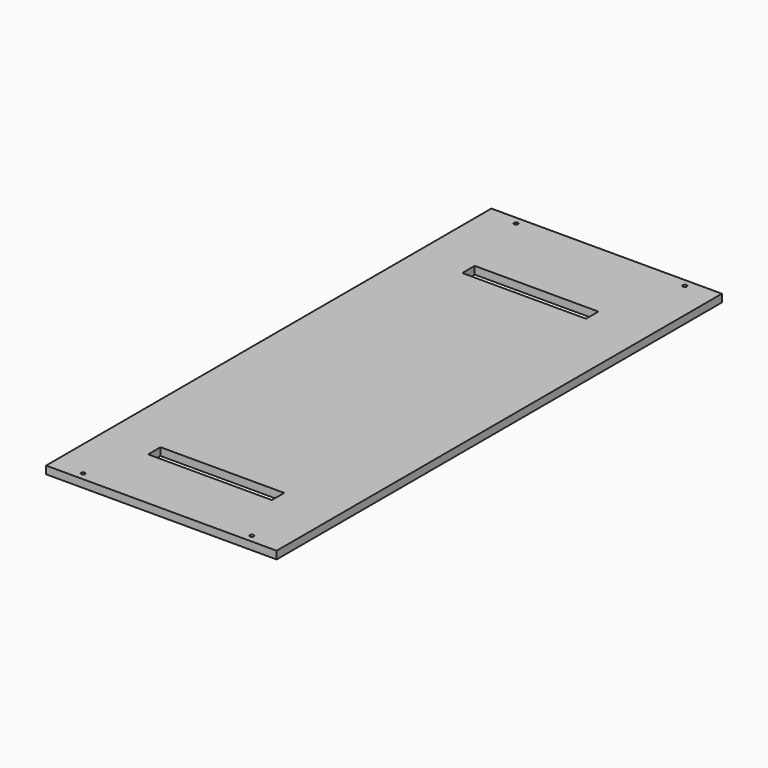
from build123d import *

# Parameters (mm, degrees)
F0_W     = 378.75718
F0_H     = 914.4
F1_DEPTH = 12.7
F3_DEPTH = 12.701
F4_W     = 203.2
F4_H     = 25.4
F5_DEPTH = 25.4


with BuildPart() as f1:
    # F0 (on Top) → F1 (new body)
    with BuildSketch(Plane.XY):
        with Locations((-4.136321, 70.025934)):
            Rectangle(F0_W, F0_H)
    extrude(amount=F1_DEPTH)

    # F2 (on face) → F3 (cut, through all)
    with BuildSketch(Plane.XY.offset(12.7)):
        with BuildLine():
            Line((-142.714911, 514.525934), (-142.714911, 511.350934))
            ThreePointArc((-142.714911, 511.350934), (-140.469847, 512.28087), (-139.539911, 514.525934))
            ThreePointArc((-139.539911, 514.525934), (-140.469847, 516.770998), (-142.714911, 517.700934))
            Line((-142.714911, 517.700934), (-142.714911, 514.525934))
        make_face()
        with BuildLine():
            ThreePointArc((-142.714911, 517.700934), (-145.889911, 514.525934), (-142.714911, 511.350934))
            Line((-142.714911, 511.350934), (-142.714911, 514.525934))
            Line((-142.714911, 514.525934), (-142.714911, 517.700934))
        make_face()
        with BuildLine():
            Line((134.442269, 514.525934), (134.442269, 511.350934))
            ThreePointArc((134.442269, 511.350934), (136.687333, 512.28087), (137.617269, 514.525934))
            ThreePointArc((137.617269, 514.525934), (136.687333, 516.770998), (134.442269, 517.700934))
            Line((134.442269, 517.700934), (134.442269, 514.525934))
        make_face()
        with BuildLine():
            ThreePointArc((134.442269, 517.700934), (131.267269, 514.525934), (134.442269, 511.350934))
            Line((134.442269, 511.350934), (134.442269, 514.525934))
            Line((134.442269, 514.525934), (134.442269, 517.700934))
        make_face()
        with BuildLine():
            ThreePointArc((-142.714911, -377.649066), (-140.469847, -376.71913), (-139.539911, -374.474066))
            ThreePointArc((-139.539911, -374.474066), (-144.959975, -372.229002), (-142.714911, -377.649066))
        make_face()
        with BuildLine():
            ThreePointArc((134.442269, -377.649066), (136.687333, -376.71913), (137.617269, -374.474066))
            ThreePointArc((137.617269, -374.474066), (136.687333, -372.229002), (134.442269, -371.299066))
            Line((134.442269, -371.299066), (134.442269, -374.474066))
            Line((134.442269, -374.474066), (134.442269, -377.649066))
        make_face()
        with BuildLine():
            Line((134.442269, -374.474066), (134.442269, -371.299066))
            ThreePointArc((134.442269, -371.299066), (131.267269, -374.474066), (134.442269, -377.649066))
            Line((134.442269, -377.649066), (134.442269, -374.474066))
        make_face()
    extrude(amount=-F3_DEPTH, mode=Mode.SUBTRACT)

    # F4 (on face) → F5 (cut)
    with BuildSketch(Plane.XY.offset(12.7)):
        with Locations((-9.051421, 376.754831)):
            Rectangle(F4_W, F4_H)
        with Locations((-9.051421, -268.405143)):
            Rectangle(F4_W, F4_H)
    extrude(amount=-F5_DEPTH, mode=Mode.SUBTRACT)


solid = f1.part
